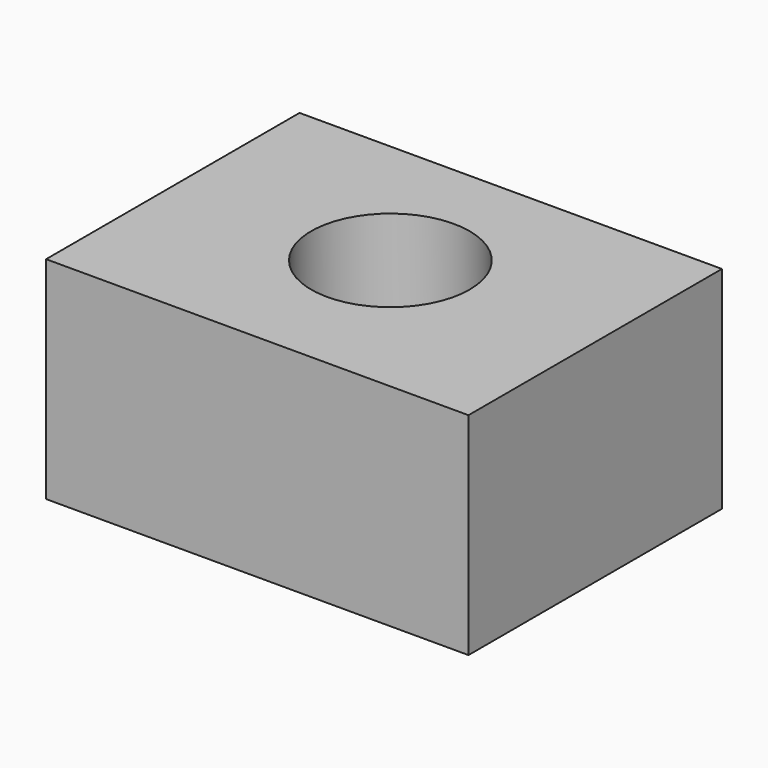
from build123d import *

# Parameters (mm, degrees)
F0_W     = 80
F0_H     = 40
F1_DEPTH = 60
F2_R     = 15
F3_DEPTH = 40.001


with BuildPart() as f1:
    # F0 (on Front) → F1 (new body)
    with BuildSketch(Plane.XZ):
        Rectangle(F0_W, F0_H)
    extrude(amount=F1_DEPTH)

    # F2 (on face) → F3 (cut, through all)
    with BuildSketch(Plane.XY.offset(20)):
        with Locations((0, -28.49043)):
            Circle(F2_R)
    extrude(amount=-F3_DEPTH, mode=Mode.SUBTRACT)


solid = f1.part
